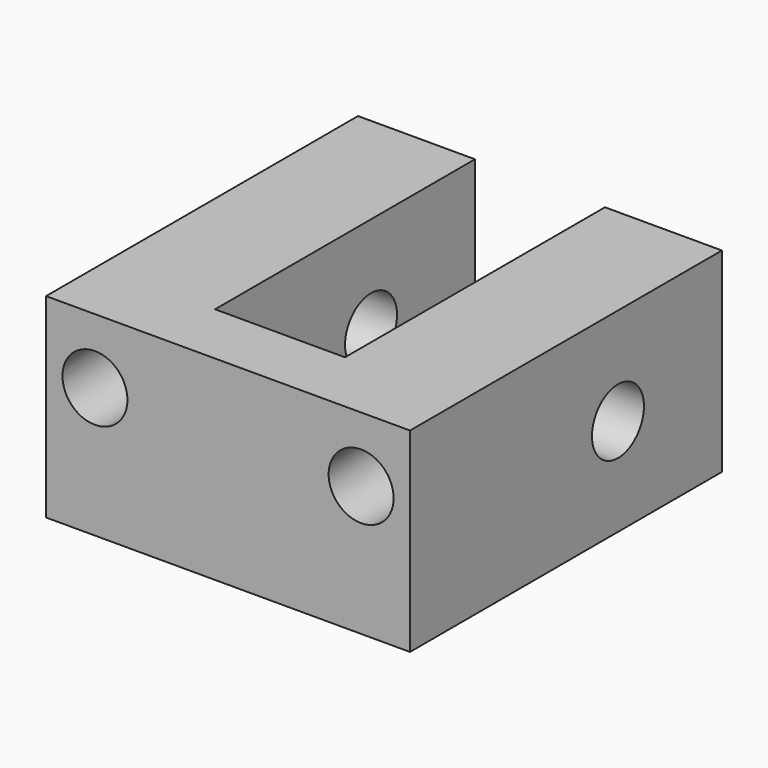
from build123d import *

# Parameters (mm, degrees)
F0_W     = 1.4
F0_H     = 0.75
F1_DEPTH = 0.75
F2_R     = 0.125
F3_DEPTH = 25
F4_W     = 0.5
F4_H     = 1.25
F5_DEPTH = 12.5
F6_R     = 0.125
F7_DEPTH = 0.5


with BuildPart() as f1:
    # F0 (on Front) → F1 (new body, symmetric)
    with BuildSketch(Plane.XZ):
        Rectangle(F0_W, F0_H)
    extrude(amount=F1_DEPTH, both=True)

    # F2 (on face) → F3 (cut)
    with BuildSketch(Plane.YZ.offset(0.7)):
        with Locations((0.25, 0)):
            Circle(F2_R)
    extrude(amount=-F3_DEPTH, mode=Mode.SUBTRACT)

    # F4 (on face) → F5 (cut, symmetric)
    with BuildSketch(Plane.XY.offset(0.375)):
        with Locations((0, 0.125)):
            Rectangle(F4_W, F4_H)
    extrude(amount=F5_DEPTH, both=True, mode=Mode.SUBTRACT)

    # F6 (on face) → F7 (cut)
    with BuildSketch(Plane.XZ.offset(0.75)):
        with Locations((0.512, 0.125)):
            Circle(F6_R)
        with Locations((-0.512, 0.125)):
            Circle(F6_R)
    extrude(amount=-F7_DEPTH, mode=Mode.SUBTRACT)


solid = f1.part
